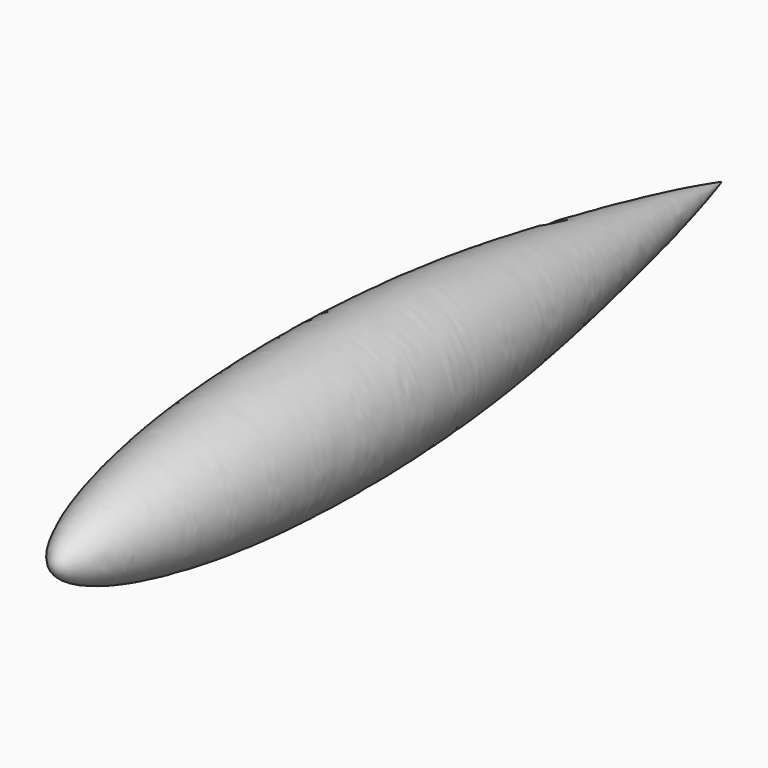
from build123d import *


with BuildPart() as f1:
    # F0 (on Right) → F1 (revolve)
    with BuildSketch(Plane.YZ):
        with BuildLine():
            Line((-76.2, 0), (0, 0))
            Line((0, 0), (76.2, 0))
            add(Edge.make_bspline(
                [(-76.2, 0), (-76.2, 3.7609585841), (-51.4760730551, 12.6516609444), (4.5322755808, 13.2167901334), (42.5934136555, 7.4084738823), (66.9223111911, 2.661992758), (76.2, 0)],
                knots=[0, 0, 0, 0, 0.1936725589, 0.5085982913, 0.7666106442, 1, 1, 1, 1], degree=3))
        make_face()
    revolve(axis=Axis((0, -38.1, 0), (0, -1, 0)))


solid = f1.part
